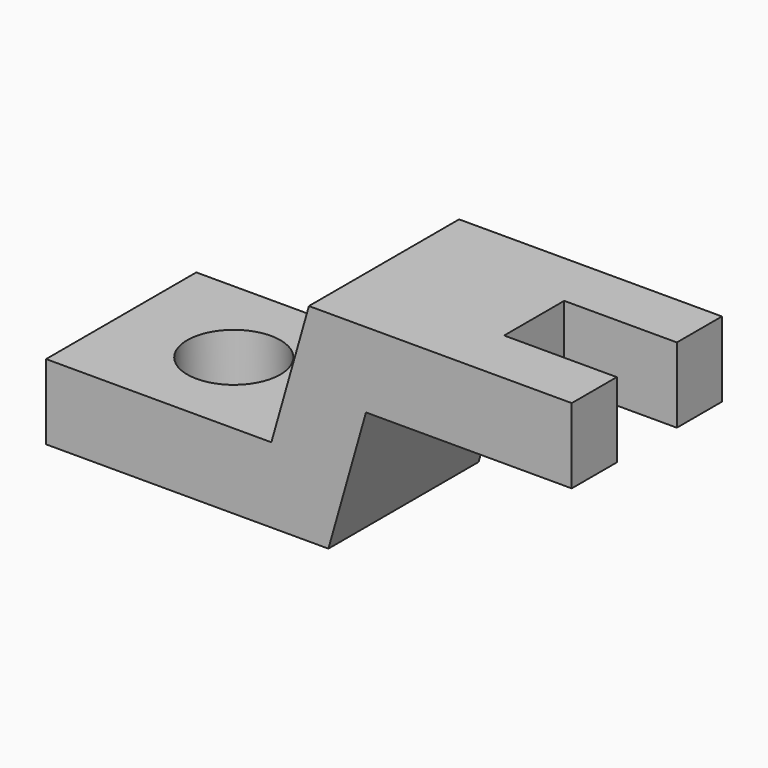
from build123d import *

# Parameters (mm, degrees)
F1_DEPTH = 31.75
F2_W     = 19.05
F2_H     = 12.7
F3_DEPTH = 25.4
F4_R     = 7.874
F5_DEPTH = 25.4


with BuildPart() as f1:
    # F0 (on Front) → F1 (new body)
    with BuildSketch(Plane.XZ):
        Polygon((-47.752, 0), (0, 0), (6.35, 22.352), (41.148, 22.352), (41.148, 35.052), (-3.302, 35.052), (-9.652, 12.7), (-47.752, 12.7), align=None)
    extrude(amount=-F1_DEPTH)

    # F2 (on face) → F3 (cut)
    with BuildSketch(Plane.XY.offset(35.052)):
        with Locations((31.623, 15.875)):
            Rectangle(F2_W, F2_H)
    extrude(amount=-F3_DEPTH, mode=Mode.SUBTRACT)

    # F4 (on face) → F5 (cut)
    with BuildSketch(Plane.XY.offset(12.7)):
        with Locations((-28.702, 15.875)):
            Circle(F4_R)
    extrude(amount=-F5_DEPTH, mode=Mode.SUBTRACT)


solid = f1.part
